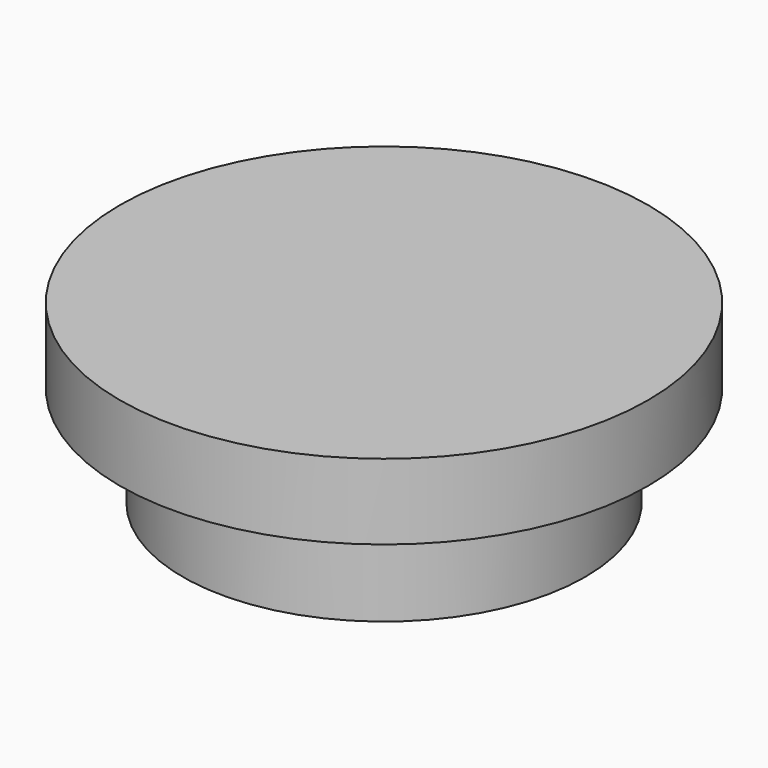
from build123d import *

# Parameters (mm, degrees)
F0_R     = 10.5
F0_R_2   = 8
F1_DEPTH = 3
F2_DEPTH = 7


with BuildPart() as f1:
    # F0 (on Top) → F1 (new body)
    with BuildSketch(Plane.XY):
        Circle(F0_R)
        Circle(F0_R_2, mode=Mode.SUBTRACT)
    extrude(amount=-F1_DEPTH)

    # F0 (on Top) → F2 (join)
    with BuildSketch(Plane.XY):
        Circle(F0_R_2)
    extrude(amount=-F2_DEPTH)


solid = f1.part
